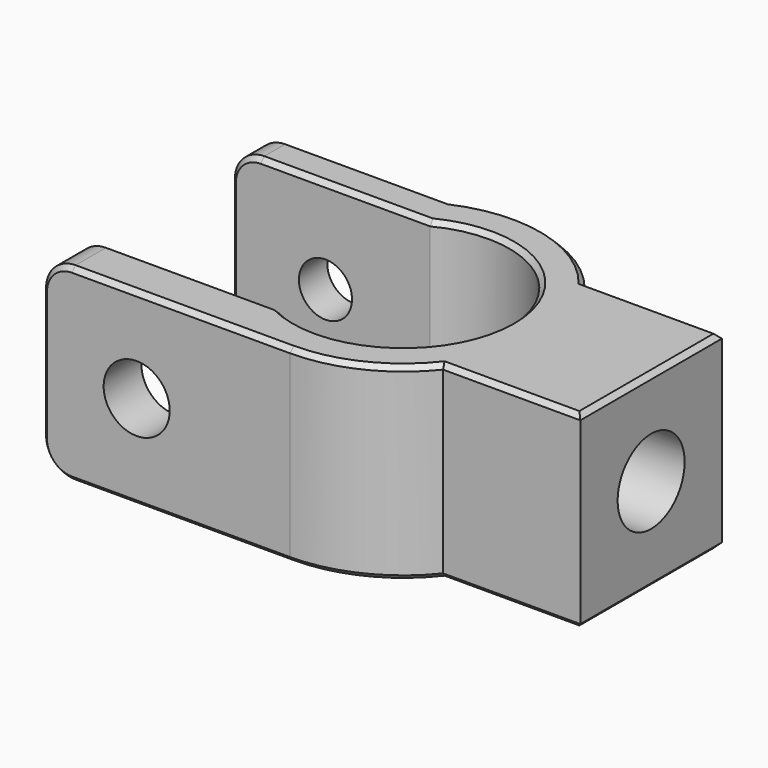
from build123d import *

# Parameters (mm, degrees)
PAD004_DEPTH        = 16
FILLET003_R         = 2.5
HOLE003_D           = 4.5
HOLE003_CBORE_D     = 5.6
HOLE003_CBORE_DEPTH = 4.4
HOLE004_D           = 7.1
HOLE004_CBORE_D     = 11.36
HOLE004_CBORE_DEPTH = 15.89
CHAMFER006_SIZE     = 0.4


with BuildPart() as part:
    # Sketch017 → Pad004 (new body)
    with BuildSketch(Plane.XY):
        with BuildLine():
            Line((9.367497, 7.5), (21, 7.5))
            Line((21, 7.5), (21, -7.5))
            Line((21, -7.5), (9.367497, -7.5))
            ThreePointArc((0, -12), (5.196152, -10.816654), (9.367497, -7.5))
            Line((0, -12), (-21, -12))
            Line((-21, -12), (-21, -8))
            Line((-21, -8), (-4.123106, -8))
            ThreePointArc((-4.123106, -8), (9, 0), (-4.123106, 8))
            Line((-21, 8), (-4.123106, 8))
            Line((-21, 11), (-21, 8))
            Line((-4.795832, 11), (-21, 11))
            ThreePointArc((9.367497, 7.5), (2.878807, 11.649569), (-4.795832, 11))
        make_face()
    extrude(amount=PAD004_DEPTH)

    # Fillet003
    fillet003_edges = [part.edges().sort_by_distance(p)[0] for p in [
        (-21, -10, 16),
        (-21, 9.5, 16),
        (-21, 9.5, 0),
        (-21, -10, 0),
    ]]
    fillet(fillet003_edges, radius=FILLET003_R)

    # Hole003 (through all)
    with Locations(Plane.XZ.offset(12)):
        with Locations((-13, 8)):
            CounterBoreHole(HOLE003_D / 2, HOLE003_CBORE_D / 2, HOLE003_CBORE_DEPTH)

    # Hole004 (through all)
    with Locations(Plane(origin=(0, 0, 0), x_dir=(0, 1, 0), z_dir=(-1, 0, 0))):
        with Locations((0, -8)):
            CounterBoreHole(HOLE004_D / 2, HOLE004_CBORE_D / 2, HOLE004_CBORE_DEPTH)

    # Chamfer006
    chamfer006_edges = [part.edges().sort_by_distance(p)[0] for p in [
        (21, 0, 16),
        (15.183748, 7.5, 16),
        (15.183748, -7.5, 16),
        (5.196152, -10.816654, 16),
        (9, 0, 16),
        (2.878807, 11.649569, 16),
        (-11.647916, 11, 16),
        (-11.311553, 8, 16),
        (-11.311553, -8, 16),
        (-9.25, -12, 16),
        (15.183748, 7.5, 0),
        (21, 0, 0),
        (2.878807, 11.649569, 0),
        (9, 0, 0),
        (-11.647916, 11, 0),
        (-11.311553, 8, 0),
        (15.183748, -7.5, 0),
        (5.196152, -10.816654, 0),
        (-9.25, -12, 0),
        (-11.311553, -8, 0),
    ]]
    chamfer(chamfer006_edges, length=CHAMFER006_SIZE)


solid = part.part
